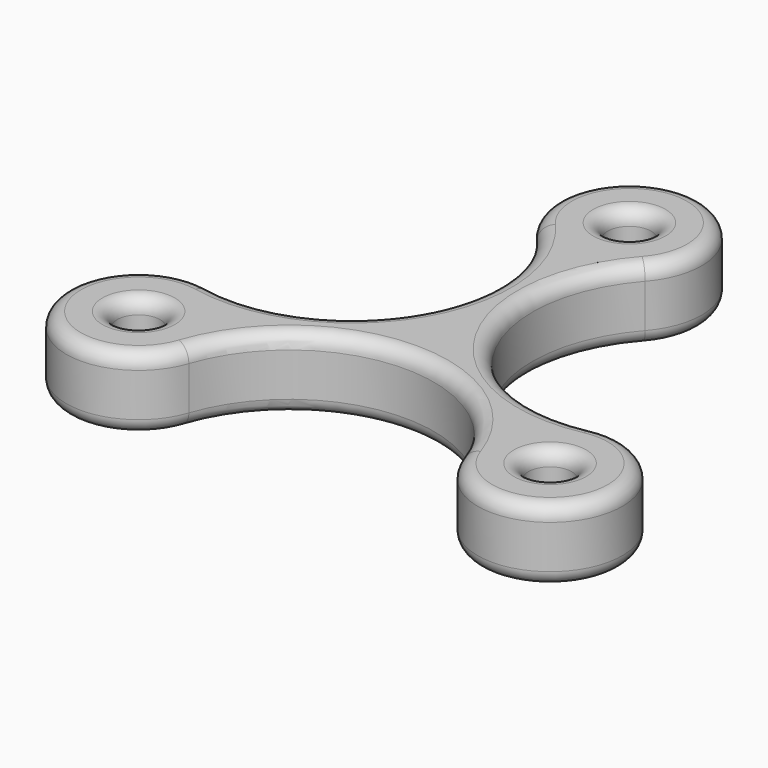
from build123d import *

# Parameters (mm, degrees)
F1_DEPTH = 10
F2_R     = 3
F3_DEPTH = 25
F4_R     = 2
F5_R     = 2


with BuildPart() as f1:
    # F0 (on Top) → F1 (new body)
    with BuildSketch(Plane.XY):
        with BuildLine():
            ThreePointArc((26.455989, -6.627296), (5.145256, 2.970615), (7.488588, 26.225207))
            ThreePointArc((7.488588, 26.225207), (0, 42.852502), (-7.488588, 26.225207))
            ThreePointArc((-7.488588, 26.225207), (-5.145256, 2.970615), (-26.455989, -6.627296))
            ThreePointArc((-26.455989, -6.627296), (-37.111356, -21.426251), (-18.967401, -19.597911))
            ThreePointArc((-18.967401, -19.597911), (0, -5.941229), (18.967401, -19.597911))
            ThreePointArc((18.967401, -19.597911), (37.111356, -21.426251), (26.455989, -6.627296))
        make_face()
    extrude(amount=F1_DEPTH)

    # F2 (on Top) → F3 (cut)
    with BuildSketch(Plane.XY):
        with Locations((0, 32.852502)):
            Circle(F2_R)
        with Locations((28.451102, -16.426251)):
            Circle(F2_R)
        with Locations((-28.451102, -16.426251)):
            Circle(F2_R)
    extrude(amount=F3_DEPTH, mode=Mode.SUBTRACT)

    # F4
    f4_edges = [f1.edges().sort_by_distance(p)[0] for p in [
        (37.111356, -21.426251, 10),
        (0, -5.941229, 10),
        (5.145256, 2.970615, 10),
        (-37.111356, -21.426251, 10),
        (0, 42.852502, 10),
        (-5.145256, 2.970615, 10),
        (-31.451102, -16.426251, 10),
        (25.451102, -16.426251, 10),
        (-3, 32.852502, 10),
    ]]
    fillet(f4_edges, radius=F4_R)

    # F5
    f5_edges = [f1.edges().sort_by_distance(p)[0] for p in [
        (37.111356, -21.426251, 0),
        (0, -5.941229, 0),
        (5.145256, 2.970615, 0),
        (-37.111356, -21.426251, 0),
        (0, 42.852502, 0),
        (-5.145256, 2.970615, 0),
        (-31.451102, -16.426251, 0),
        (25.451102, -16.426251, 0),
        (-3, 32.852502, 0),
    ]]
    fillet(f5_edges, radius=F5_R)


solid = f1.part
